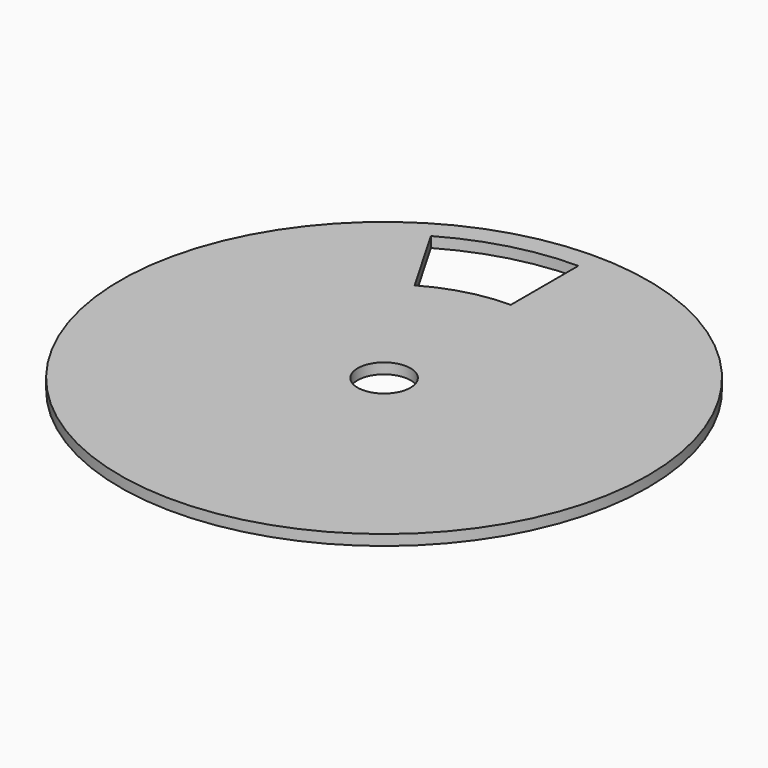
from build123d import *

# Parameters (mm, degrees)
F0_R     = 25
F1_DEPTH = 1


with BuildPart() as f1:
    # F0 (on Top) → F1 (new body)
    with BuildSketch(Plane.XY):
        Circle(F0_R)
        with BuildLine():
            Line((0, 23), (0, 15))
            ThreePointArc((0, 15), (-3.8822856765, 14.4888873943), (-7.5, 12.9903810568))
            Line((-7.5, 12.9903810568), (-11.5, 19.918584287))
            ThreePointArc((-11.5, 19.918584287), (-5.9528380374, 22.2162940046), (0, 23))
        make_face(mode=Mode.SUBTRACT)
        with BuildLine():
            ThreePointArc((-2.5, 0), (0, 2.5), (2.5, 0))
            ThreePointArc((2.5, 0), (0, -2.5), (-2.5, 0))
        make_face(mode=Mode.SUBTRACT)
    extrude(amount=F1_DEPTH)


solid = f1.part
